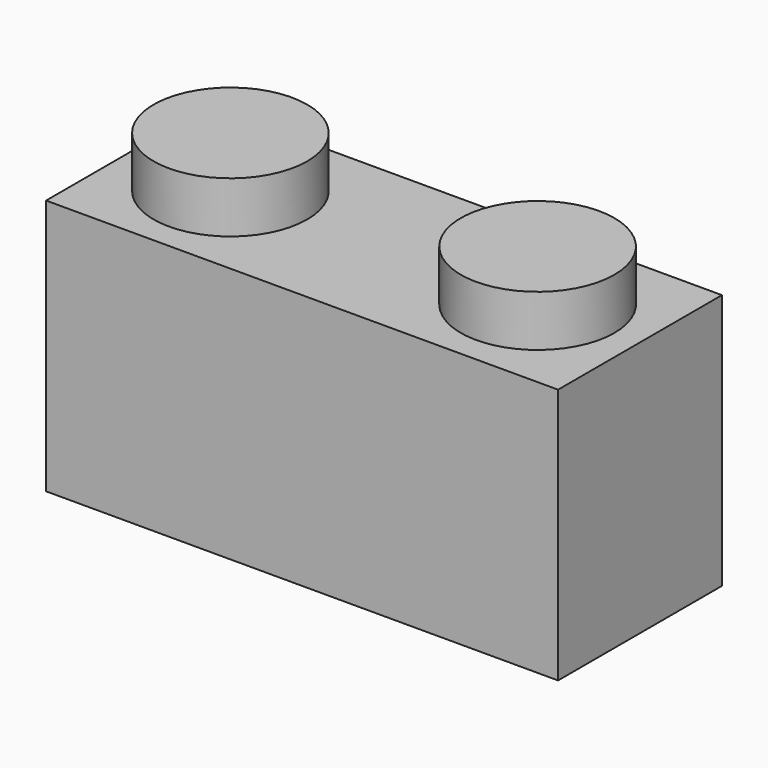
from build123d import *

# Parameters (mm, degrees)
F0_W     = 10
F0_H     = 4
F1_DEPTH = 5
F2_W     = 9
F2_H     = 3
F3_DEPTH = 4
F4_R     = 1.5
F5_DEPTH = 1


with BuildPart() as f1:
    # F0 (on Top) → F1 (new body)
    with BuildSketch(Plane.XY):
        Rectangle(F0_W, F0_H)
    extrude(amount=F1_DEPTH)

    # F2 (on face) → F3 (cut)
    with BuildSketch(Plane(origin=(0, 0, 0), x_dir=(1, 0, 0), z_dir=(0, 0, -1))):
        Rectangle(F2_W, F2_H)
    extrude(amount=-F3_DEPTH, mode=Mode.SUBTRACT)

    # F4 (on face) → F5 (join)
    with BuildSketch(Plane.XY.offset(5)):
        with Locations((-3, 0)):
            Circle(F4_R)
        with Locations((3, 0)):
            Circle(F4_R)
    extrude(amount=F5_DEPTH)


solid = f1.part
